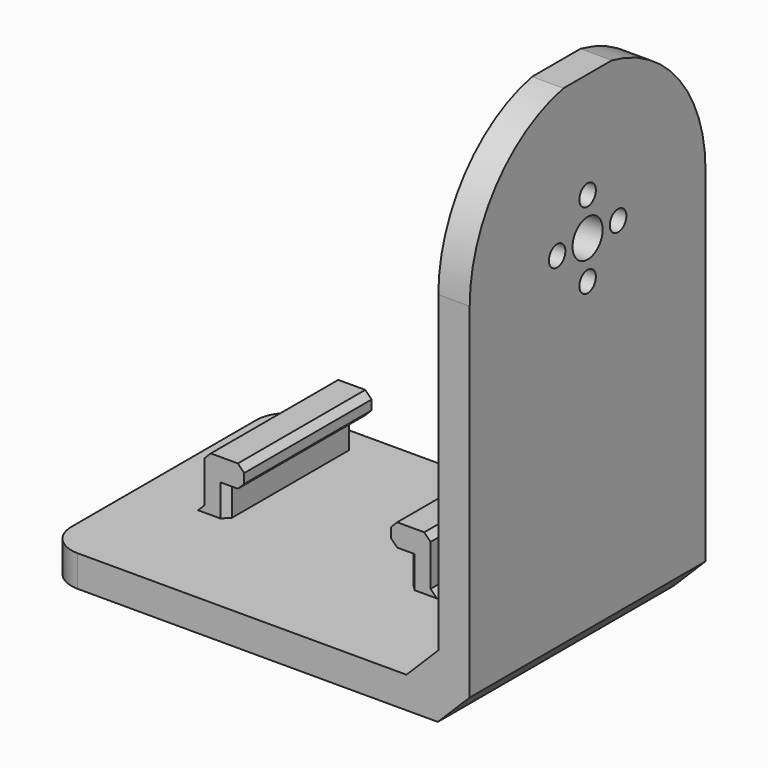
from build123d import *

# Parameters (mm, degrees)
F0_W      = 57.15
F0_H      = 21.6
F1_DEPTH  = 5
F2_W      = 57.15
F2_H      = 25.4
F3_DEPTH  = 5
F4_W      = 3.556
F4_H      = 25.4
F5_DEPTH  = 5.08
F6_W      = 6.35
F6_H      = 25.4
F7_DEPTH  = 3.556
F8_SIZE   = 1.016
F9_W      = 10.425
F9_H      = 47
F10_DEPTH = 5
F11_W     = 5
F11_H     = 47
F12_DEPTH = 78
F13_R     = 1.6478
F13_R_2   = 3
F14_DEPTH = 25.4
F16_DEPTH = 25.4
F17_R     = 5.08
F18_SIZE  = 5.08


with BuildPart() as f1:
    # F0 (on Top) → F1 (new body)
    with BuildSketch(Plane.XY):
        Rectangle(F0_W, F0_H)
    extrude(amount=F1_DEPTH)

    # F2 (on Top) → F3 (join)
    with BuildSketch(Plane.XY):
        with Locations((0, 23.5)):
            Rectangle(F2_W, F2_H)
    extrude(amount=F3_DEPTH)

    # F4 (on face) → F5 (join)
    with BuildSketch(Plane.XY.offset(5)):
        with Locations((-16.256, 20.32)):
            Rectangle(F4_W, F4_H)
        with Locations((16.256, 20.32)):
            Rectangle(F4_W, F4_H)
    extrude(amount=F5_DEPTH)

    # F6 (on face) → F7 (join)
    with BuildSketch(Plane.XY.offset(10.08)):
        with Locations((-14.859, 20.32)):
            Rectangle(F6_W, F6_H)
        with Locations((14.859, 20.32)):
            Rectangle(F6_W, F6_H)
    extrude(amount=F7_DEPTH)

    # F8
    f8_edges = [f1.edges().sort_by_distance(p)[0] for p in [
        (-11.684, 20.32, 13.636),
        (-11.684, 20.32, 10.08),
        (11.684, 20.32, 13.636),
        (11.684, 20.32, 10.08),
        (18.034, 20.32, 13.636),
        (-18.034, 20.32, 13.636),
        (18.034, 20.32, 5),
        (-18.034, 20.32, 5),
        (14.478, 33.02, 7.54),
        (-14.478, 33.02, 7.54),
        (-14.478, 7.62, 7.54),
        (14.478, 7.62, 7.54),
    ]]
    chamfer(f8_edges, length=F8_SIZE)

    # F9 (on face) → F10 (join)
    with BuildSketch(Plane.XY.offset(5)):
        with Locations((33.7875, 12.7)):
            Rectangle(F9_W, F9_H)
    extrude(amount=-F10_DEPTH)

    # F11 (on face) → F12 (join)
    with BuildSketch(Plane.XY.offset(5)):
        with Locations((36.5, 12.7)):
            Rectangle(F11_W, F11_H)
    extrude(amount=F12_DEPTH)

    # F13 (on face) → F14 (cut)
    with BuildSketch(Plane.YZ.offset(39)):
        with Locations((6.625, 60)):
            Circle(F13_R)
        with Locations((12.7, 53.925)):
            Circle(F13_R)
        with Locations((18.775, 60)):
            Circle(F13_R)
        with Locations((12.7, 66.075)):
            Circle(F13_R)
        with Locations((12.7, 60)):
            Circle(F13_R_2)
    extrude(amount=-F14_DEPTH, mode=Mode.SUBTRACT)

    # F15 (on face) → F16 (cut)
    with BuildSketch(Plane(origin=(34, 0, 0), x_dir=(0, -1, 0), z_dir=(-1, 0, 0))):
        with BuildLine():
            ThreePointArc((-36.2, 60), (-30.942298, 74.814471), (-17.521825, 83))
            Line((-17.521825, 83), (-36.2, 83))
            Line((-36.2, 83), (-36.2, 60))
        make_face()
        with BuildLine():
            Line((-17.521825, 83), (-7.878175, 83))
            ThreePointArc((-7.878175, 83), (-12.7, 83.5), (-17.521825, 83))
        make_face()
        with BuildLine():
            ThreePointArc((-7.878175, 83), (5.542298, 74.814471), (10.8, 60))
            Line((10.8, 60), (10.8, 83))
            Line((10.8, 83), (-7.878175, 83))
        make_face()
    extrude(amount=-F16_DEPTH, mode=Mode.SUBTRACT)

    # F17
    f17_edges = [f1.edges().sort_by_distance(p)[0] for p in [
        (-28.575, -10.8, 2.5),
        (-28.575, 36.2, 2.5),
    ]]
    fillet(f17_edges, radius=F17_R)

    # F18
    f18_edges = [f1.edges().sort_by_distance(p)[0] for p in [
        (34, 12.7, 5),
        (39, 12.7, 0),
    ]]
    chamfer(f18_edges, length=F18_SIZE)


solid = f1.part
